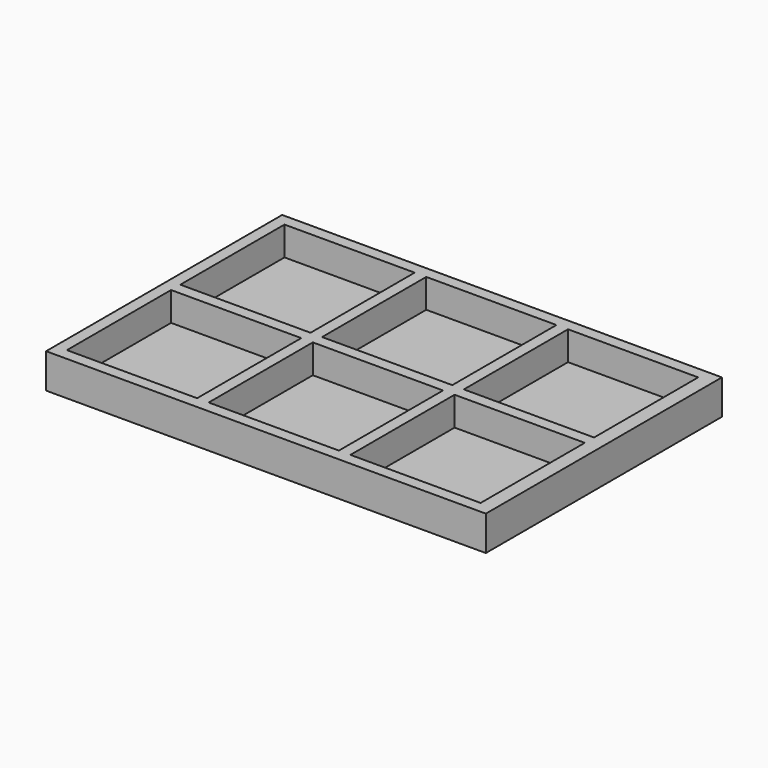
from build123d import *

# Parameters (mm, degrees)
F0_W     = 76
F0_H     = 51
F1_DEPTH = 6
F2_W     = 22.5
F2_H     = 22.5
F3_DEPTH = 5


with BuildPart() as f1:
    # F0 (on Top) → F1 (new body)
    with BuildSketch(Plane.XY):
        Rectangle(F0_W, F0_H)
    extrude(amount=F1_DEPTH)

    # F2 (on face) → F3 (cut)
    with BuildSketch(Plane.XY.offset(6)):
        with Locations((-24.75, 12.25)):
            Rectangle(F2_W, F2_H)
        with Locations((24.25, 12.25)):
            Rectangle(F2_W, F2_H)
        with Locations((-24.75, -12.25)):
            Rectangle(F2_W, F2_H)
        with Locations((-0.25, 12.25)):
            Rectangle(F2_W, F2_H)
        with Locations((-0.25, -12.25)):
            Rectangle(F2_W, F2_H)
        with Locations((24.25, -12.25)):
            Rectangle(F2_W, F2_H)
    extrude(amount=-F3_DEPTH, mode=Mode.SUBTRACT)


solid = f1.part
